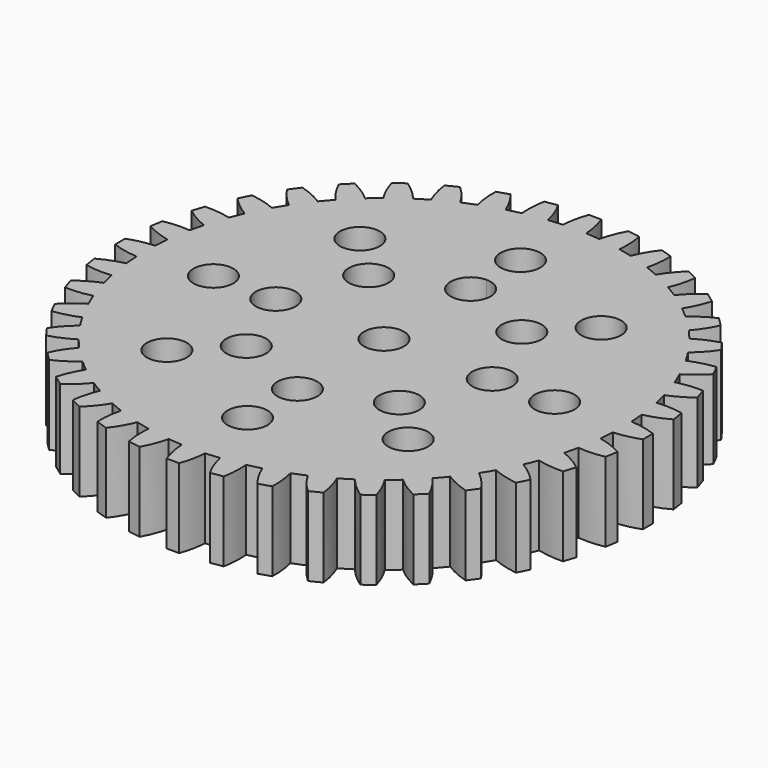
from build123d import *

# Parameters (mm, degrees)
F0_R     = 1.6
F1_DEPTH = 6.35


with BuildPart() as f1:
    # F0 (on Top) → F1 (new body)
    with BuildSketch(Plane.XY):
        with BuildLine():
            Line((0.5, 21.150821), (-0.5, 21.150821))
            ThreePointArc((-0.5, 21.150821), (-0.794678, 20.135079), (-0.936717, 19.087037))
            ThreePointArc((-0.936717, 19.087037), (-1.499354, 19.051099), (-2.060686, 18.998579))
            ThreePointArc((-2.060686, 18.998579), (-2.364926, 20.011498), (-2.814873, 20.968637))
            Line((-2.814873, 20.968637), (-3.802562, 20.812202))
            ThreePointArc((-3.802562, 20.812202), (-3.934714, 19.762868), (-3.911055, 18.705509))
            ThreePointArc((-3.911055, 18.705509), (-4.461143, 18.581997), (-5.007348, 18.442312))
            ThreePointArc((-5.007348, 18.442312), (-5.466298, 19.395167), (-6.060435, 20.270135))
            Line((-6.060435, 20.270135), (-7.011491, 19.961118))
            ThreePointArc((-7.011491, 19.961118), (-6.977865, 18.904029), (-6.78909, 17.863389))
            ThreePointArc((-6.78909, 17.863389), (-7.313084, 17.655346), (-7.830712, 17.431935))
            ThreePointArc((-7.830712, 17.431935), (-8.433071, 18.301263), (-9.156769, 19.072515))
            Line((-9.156769, 19.072515), (-10.047775, 18.618524))
            ThreePointArc((-10.047775, 18.618524), (-9.849198, 17.57971), (-9.499955, 16.581414))
            ThreePointArc((-9.499955, 16.581414), (-9.984952, 16.293961), (-10.461259, 15.992326))
            ThreePointArc((-10.461259, 15.992326), (-11.192194, 16.756721), (-12.027632, 17.405266))
            Line((-12.027632, 17.405266), (-12.836649, 16.817481))
            ThreePointArc((-12.836649, 16.817481), (-12.47801, 15.822521), (-11.976899, 14.891149))
            ThreePointArc((-11.976899, 14.891149), (-12.410958, 14.531364), (-12.834214, 14.158932))
            ThreePointArc((-12.834214, 14.158932), (-13.675729, 14.799573), (-14.602336, 15.309442))
            Line((-14.602336, 15.309442), (-15.309442, 14.602336))
            ThreePointArc((-15.309442, 14.602336), (-14.799573, 13.675729), (-14.158932, 12.834214))
            ThreePointArc((-14.158932, 12.834214), (-14.531364, 12.410958), (-14.891149, 11.976899))
            ThreePointArc((-14.891149, 11.976899), (-15.822521, 12.47801), (-16.817481, 12.836649))
            Line((-16.817481, 12.836649), (-17.405266, 12.027632))
            ThreePointArc((-17.405266, 12.027632), (-16.756721, 11.192194), (-15.992326, 10.461259))
            ThreePointArc((-15.992326, 10.461259), (-16.293961, 9.984952), (-16.581414, 9.499955))
            ThreePointArc((-16.581414, 9.499955), (-17.57971, 9.849198), (-18.618524, 10.047775))
            Line((-18.618524, 10.047775), (-19.072515, 9.156769))
            ThreePointArc((-19.072515, 9.156769), (-18.301263, 8.433071), (-17.431935, 7.830712))
            ThreePointArc((-17.431935, 7.830712), (-17.655346, 7.313084), (-17.863389, 6.78909))
            ThreePointArc((-17.863389, 6.78909), (-18.904029, 6.977865), (-19.961118, 7.011491))
            Line((-19.961118, 7.011491), (-20.270135, 6.060435))
            ThreePointArc((-20.270135, 6.060435), (-19.395167, 5.466298), (-18.442312, 5.007348))
            ThreePointArc((-18.442312, 5.007348), (-18.581997, 4.461143), (-18.705509, 3.911055))
            ThreePointArc((-18.705509, 3.911055), (-19.762868, 3.934714), (-20.812202, 3.802562))
            Line((-20.812202, 3.802562), (-20.968637, 2.814873))
            ThreePointArc((-20.968637, 2.814873), (-20.011498, 2.364926), (-18.998579, 2.060686))
            ThreePointArc((-18.998579, 2.060686), (-19.051099, 1.499354), (-19.087037, 0.936717))
            ThreePointArc((-19.087037, 0.936717), (-20.135079, 0.794678), (-21.150821, 0.5))
            Line((-21.150821, 0.5), (-21.150821, -0.5))
            ThreePointArc((-21.150821, -0.5), (-20.135079, -0.794678), (-19.087037, -0.936717))
            ThreePointArc((-19.087037, -0.936717), (-19.051099, -1.499354), (-18.998579, -2.060686))
            ThreePointArc((-18.998579, -2.060686), (-20.011498, -2.364926), (-20.968637, -2.814873))
            Line((-20.968637, -2.814873), (-20.812202, -3.802562))
            ThreePointArc((-20.812202, -3.802562), (-19.762868, -3.934714), (-18.705509, -3.911055))
            ThreePointArc((-18.705509, -3.911055), (-18.581997, -4.461143), (-18.442312, -5.007348))
            ThreePointArc((-18.442312, -5.007348), (-19.395167, -5.466298), (-20.270135, -6.060435))
            Line((-20.270135, -6.060435), (-19.961118, -7.011491))
            ThreePointArc((-19.961118, -7.011491), (-18.904029, -6.977865), (-17.863389, -6.78909))
            ThreePointArc((-17.863389, -6.78909), (-17.655346, -7.313084), (-17.431935, -7.830712))
            ThreePointArc((-17.431935, -7.830712), (-18.301263, -8.433071), (-19.072515, -9.156769))
            Line((-19.072515, -9.156769), (-18.618524, -10.047775))
            ThreePointArc((-18.618524, -10.047775), (-17.57971, -9.849198), (-16.581414, -9.499955))
            ThreePointArc((-16.581414, -9.499955), (-16.293961, -9.984952), (-15.992326, -10.461259))
            ThreePointArc((-15.992326, -10.461259), (-16.756721, -11.192194), (-17.405266, -12.027632))
            Line((-17.405266, -12.027632), (-16.817481, -12.836649))
            ThreePointArc((-16.817481, -12.836649), (-15.822521, -12.47801), (-14.891149, -11.976899))
            ThreePointArc((-14.891149, -11.976899), (-14.531364, -12.410958), (-14.158932, -12.834214))
            ThreePointArc((-14.158932, -12.834214), (-14.799573, -13.675729), (-15.309442, -14.602336))
            Line((-15.309442, -14.602336), (-14.602336, -15.309442))
            ThreePointArc((-14.602336, -15.309442), (-13.675729, -14.799573), (-12.834214, -14.158932))
            ThreePointArc((-12.834214, -14.158932), (-12.410958, -14.531364), (-11.976899, -14.891149))
            ThreePointArc((-11.976899, -14.891149), (-12.47801, -15.822521), (-12.836649, -16.817481))
            Line((-12.836649, -16.817481), (-12.027632, -17.405266))
            ThreePointArc((-12.027632, -17.405266), (-11.192194, -16.756721), (-10.461259, -15.992326))
            ThreePointArc((-10.461259, -15.992326), (-9.984952, -16.293961), (-9.499955, -16.581414))
            ThreePointArc((-9.499955, -16.581414), (-9.849198, -17.57971), (-10.047775, -18.618524))
            Line((-10.047775, -18.618524), (-9.156769, -19.072515))
            ThreePointArc((-9.156769, -19.072515), (-8.433071, -18.301263), (-7.830712, -17.431935))
            ThreePointArc((-7.830712, -17.431935), (-7.313084, -17.655346), (-6.78909, -17.863389))
            ThreePointArc((-6.78909, -17.863389), (-6.977865, -18.904029), (-7.011491, -19.961118))
            Line((-7.011491, -19.961118), (-6.060435, -20.270135))
            ThreePointArc((-6.060435, -20.270135), (-5.466298, -19.395167), (-5.007348, -18.442312))
            ThreePointArc((-5.007348, -18.442312), (-4.461143, -18.581997), (-3.911055, -18.705509))
            ThreePointArc((-3.911055, -18.705509), (-3.934714, -19.762868), (-3.802562, -20.812202))
            Line((-3.802562, -20.812202), (-2.814873, -20.968637))
            ThreePointArc((-2.814873, -20.968637), (-2.364926, -20.011498), (-2.060686, -18.998579))
            ThreePointArc((-2.060686, -18.998579), (-1.499354, -19.051099), (-0.936717, -19.087037))
            ThreePointArc((-0.936717, -19.087037), (-0.794678, -20.135079), (-0.5, -21.150821))
            Line((-0.5, -21.150821), (0.5, -21.150821))
            ThreePointArc((0.5, -21.150821), (0.794678, -20.135079), (0.936717, -19.087037))
            ThreePointArc((0.936717, -19.087037), (1.499354, -19.051099), (2.060686, -18.998579))
            ThreePointArc((2.060686, -18.998579), (2.364926, -20.011498), (2.814873, -20.968637))
            Line((2.814873, -20.968637), (3.802562, -20.812202))
            ThreePointArc((3.802562, -20.812202), (3.934714, -19.762868), (3.911055, -18.705509))
            ThreePointArc((3.911055, -18.705509), (4.461143, -18.581997), (5.007348, -18.442312))
            ThreePointArc((5.007348, -18.442312), (5.466298, -19.395167), (6.060435, -20.270135))
            Line((6.060435, -20.270135), (7.011491, -19.961118))
            ThreePointArc((7.011491, -19.961118), (6.977865, -18.904029), (6.78909, -17.863389))
            ThreePointArc((6.78909, -17.863389), (7.313084, -17.655346), (7.830712, -17.431935))
            ThreePointArc((7.830712, -17.431935), (8.433071, -18.301263), (9.156769, -19.072515))
            Line((9.156769, -19.072515), (10.047775, -18.618524))
            ThreePointArc((10.047775, -18.618524), (9.849198, -17.57971), (9.499955, -16.581414))
            ThreePointArc((9.499955, -16.581414), (9.984952, -16.293961), (10.461259, -15.992326))
            ThreePointArc((10.461259, -15.992326), (11.192194, -16.756721), (12.027632, -17.405266))
            Line((12.027632, -17.405266), (12.836649, -16.817481))
            ThreePointArc((12.836649, -16.817481), (12.47801, -15.822521), (11.976899, -14.891149))
            ThreePointArc((11.976899, -14.891149), (12.410958, -14.531364), (12.834214, -14.158932))
            ThreePointArc((12.834214, -14.158932), (13.675729, -14.799573), (14.602336, -15.309442))
            Line((14.602336, -15.309442), (15.309442, -14.602336))
            ThreePointArc((15.309442, -14.602336), (14.799573, -13.675729), (14.158932, -12.834214))
            ThreePointArc((14.158932, -12.834214), (14.531364, -12.410958), (14.891149, -11.976899))
            ThreePointArc((14.891149, -11.976899), (15.822521, -12.47801), (16.817481, -12.836649))
            Line((16.817481, -12.836649), (17.405266, -12.027632))
            ThreePointArc((17.405266, -12.027632), (16.756721, -11.192194), (15.992326, -10.461259))
            ThreePointArc((15.992326, -10.461259), (16.293961, -9.984952), (16.581414, -9.499955))
            ThreePointArc((16.581414, -9.499955), (17.57971, -9.849198), (18.618524, -10.047775))
            Line((18.618524, -10.047775), (19.072515, -9.156769))
            ThreePointArc((19.072515, -9.156769), (18.301263, -8.433071), (17.431935, -7.830712))
            ThreePointArc((17.431935, -7.830712), (17.655346, -7.313084), (17.863389, -6.78909))
            ThreePointArc((17.863389, -6.78909), (18.904029, -6.977865), (19.961118, -7.011491))
            Line((19.961118, -7.011491), (20.270135, -6.060435))
            ThreePointArc((20.270135, -6.060435), (19.395167, -5.466298), (18.442312, -5.007348))
            ThreePointArc((18.442312, -5.007348), (18.581997, -4.461143), (18.705509, -3.911055))
            ThreePointArc((18.705509, -3.911055), (19.762868, -3.934714), (20.812202, -3.802562))
            Line((20.812202, -3.802562), (20.968637, -2.814873))
            ThreePointArc((20.968637, -2.814873), (20.011498, -2.364926), (18.998579, -2.060686))
            ThreePointArc((18.998579, -2.060686), (19.051099, -1.499354), (19.087037, -0.936717))
            ThreePointArc((19.087037, -0.936717), (20.135079, -0.794678), (21.150821, -0.5))
            Line((21.150821, -0.5), (21.150821, 0.5))
            ThreePointArc((21.150821, 0.5), (20.135079, 0.794678), (19.087037, 0.936717))
            ThreePointArc((19.087037, 0.936717), (19.051099, 1.499354), (18.998579, 2.060686))
            ThreePointArc((18.998579, 2.060686), (20.011498, 2.364926), (20.968637, 2.814873))
            Line((20.968637, 2.814873), (20.812202, 3.802562))
            ThreePointArc((20.812202, 3.802562), (19.762868, 3.934714), (18.705509, 3.911055))
            ThreePointArc((18.705509, 3.911055), (18.581997, 4.461143), (18.442312, 5.007348))
            ThreePointArc((18.442312, 5.007348), (19.395167, 5.466298), (20.270135, 6.060435))
            Line((20.270135, 6.060435), (19.961118, 7.011491))
            ThreePointArc((19.961118, 7.011491), (18.904029, 6.977865), (17.863389, 6.78909))
            ThreePointArc((17.863389, 6.78909), (17.655346, 7.313084), (17.431935, 7.830712))
            ThreePointArc((17.431935, 7.830712), (18.301263, 8.433071), (19.072515, 9.156769))
            Line((19.072515, 9.156769), (18.618524, 10.047775))
            ThreePointArc((18.618524, 10.047775), (17.57971, 9.849198), (16.581414, 9.499955))
            ThreePointArc((16.581414, 9.499955), (16.293961, 9.984952), (15.992326, 10.461259))
            ThreePointArc((15.992326, 10.461259), (16.756721, 11.192194), (17.405266, 12.027632))
            Line((17.405266, 12.027632), (16.817481, 12.836649))
            ThreePointArc((16.817481, 12.836649), (15.822521, 12.47801), (14.891149, 11.976899))
            ThreePointArc((14.891149, 11.976899), (14.531364, 12.410958), (14.158932, 12.834214))
            ThreePointArc((14.158932, 12.834214), (14.799573, 13.675729), (15.309442, 14.602336))
            Line((15.309442, 14.602336), (14.602336, 15.309442))
            ThreePointArc((14.602336, 15.309442), (13.675729, 14.799573), (12.834214, 14.158932))
            ThreePointArc((12.834214, 14.158932), (12.410958, 14.531364), (11.976899, 14.891149))
            ThreePointArc((11.976899, 14.891149), (12.47801, 15.822521), (12.836649, 16.817481))
            Line((12.836649, 16.817481), (12.027632, 17.405266))
            ThreePointArc((12.027632, 17.405266), (11.192194, 16.756721), (10.461259, 15.992326))
            ThreePointArc((10.461259, 15.992326), (9.984952, 16.293961), (9.499955, 16.581414))
            ThreePointArc((9.499955, 16.581414), (9.849198, 17.57971), (10.047775, 18.618524))
            Line((10.047775, 18.618524), (9.156769, 19.072515))
            ThreePointArc((9.156769, 19.072515), (8.433071, 18.301263), (7.830712, 17.431935))
            ThreePointArc((7.830712, 17.431935), (7.313084, 17.655346), (6.78909, 17.863389))
            ThreePointArc((6.78909, 17.863389), (6.977865, 18.904029), (7.011491, 19.961118))
            Line((7.011491, 19.961118), (6.060435, 20.270135))
            ThreePointArc((6.060435, 20.270135), (5.466298, 19.395167), (5.007348, 18.442312))
            ThreePointArc((5.007348, 18.442312), (4.461143, 18.581997), (3.911055, 18.705509))
            ThreePointArc((3.911055, 18.705509), (3.934714, 19.762868), (3.802562, 20.812202))
            Line((3.802562, 20.812202), (2.814873, 20.968637))
            ThreePointArc((2.814873, 20.968637), (2.364926, 20.011498), (2.060686, 18.998579))
            ThreePointArc((2.060686, 18.998579), (1.499354, 19.051099), (0.936717, 19.087037))
            ThreePointArc((0.936717, 19.087037), (0.794678, 20.135079), (0.5, 21.150821))
        make_face()
        with Locations((-9.669685, -9.669685)):
            Circle(F0_R, mode=Mode.SUBTRACT)
        with Locations((-6.134151, -6.134151)):
            Circle(F0_R, mode=Mode.SUBTRACT)
        with Locations((0, -13.675)):
            Circle(F0_R, mode=Mode.SUBTRACT)
        with Locations((0, -8.675)):
            Circle(F0_R, mode=Mode.SUBTRACT)
        with Locations((9.669685, -9.669685)):
            Circle(F0_R, mode=Mode.SUBTRACT)
        with Locations((6.134151, -6.134151)):
            Circle(F0_R, mode=Mode.SUBTRACT)
        with Locations((-13.675, 0)):
            Circle(F0_R, mode=Mode.SUBTRACT)
        with Locations((-8.675, 0)):
            Circle(F0_R, mode=Mode.SUBTRACT)
        with Locations((-6.134151, 6.134151)):
            Circle(F0_R, mode=Mode.SUBTRACT)
        with Locations((-9.669685, 9.669685)):
            Circle(F0_R, mode=Mode.SUBTRACT)
        Circle(F0_R, mode=Mode.SUBTRACT)
        with Locations((8.675, 0)):
            Circle(F0_R, mode=Mode.SUBTRACT)
        with BuildLine():
            ThreePointArc((1.6, 8.675), (-1.131371, 7.543629), (0, 10.275))
            ThreePointArc((0, 10.275), (1.131371, 9.806371), (1.6, 8.675))
        make_face(mode=Mode.SUBTRACT)
        with Locations((6.134151, 6.134151)):
            Circle(F0_R, mode=Mode.SUBTRACT)
        with Locations((9.669685, 9.669685)):
            Circle(F0_R, mode=Mode.SUBTRACT)
        with Locations((13.675, 0)):
            Circle(F0_R, mode=Mode.SUBTRACT)
        with BuildLine():
            ThreePointArc((0, 12.075), (-1.131371, 14.806371), (1.6, 13.675))
            ThreePointArc((1.6, 13.675), (1.131371, 12.543629), (0, 12.075))
        make_face(mode=Mode.SUBTRACT)
    extrude(amount=F1_DEPTH)


solid = f1.part
